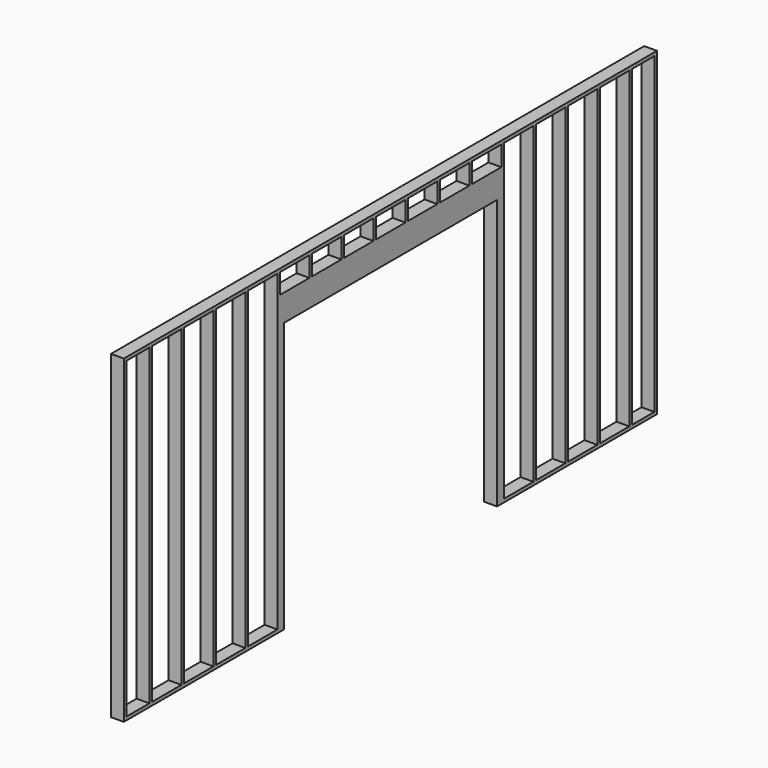
from build123d import *

# Parameters (mm, degrees)
F0_W     = 327.66
F0_H     = 3581.4
F0_W_2   = 419.1
F0_H_2   = 228.6
F0_W_3   = 320.04
F1_DEPTH = 146.304


with BuildPart() as f1:
    # F0 (on Right) → F1 (new body)
    with BuildSketch(Plane.YZ):
        Polygon((0, 3657.6), (0, 0), (2286, 0), (2286, 38.1), (2286, 3086.1), (5334, 3086.1), (5334, 38.1), (5334, 0), (7620, 0), (7620, 3657.6), align=None)
        with Locations((201.93, 1828.8)):
            Rectangle(F0_W, F0_H, mode=Mode.SUBTRACT)
        with Locations((613.41, 1828.8)):
            Rectangle(F0_W_2, F0_H, mode=Mode.SUBTRACT)
        with Locations((1070.61, 1828.8)):
            Rectangle(F0_W_2, F0_H, mode=Mode.SUBTRACT)
        with Locations((1527.81, 1828.8)):
            Rectangle(F0_W_2, F0_H, mode=Mode.SUBTRACT)
        with Locations((1985.01, 1828.8)):
            Rectangle(F0_W_2, F0_H, mode=Mode.SUBTRACT)
        with Locations((2442.21, 3505.2)):
            Rectangle(F0_W_2, F0_H_2, mode=Mode.SUBTRACT)
        with Locations((2899.41, 3505.2)):
            Rectangle(F0_W_2, F0_H_2, mode=Mode.SUBTRACT)
        with Locations((3356.61, 3505.2)):
            Rectangle(F0_W_2, F0_H_2, mode=Mode.SUBTRACT)
        with Locations((5642.61, 1828.8)):
            Rectangle(F0_W_2, F0_H, mode=Mode.SUBTRACT)
        with Locations((6099.81, 1828.8)):
            Rectangle(F0_W_2, F0_H, mode=Mode.SUBTRACT)
        with Locations((6557.01, 1828.8)):
            Rectangle(F0_W_2, F0_H, mode=Mode.SUBTRACT)
        with Locations((7014.21, 1828.8)):
            Rectangle(F0_W_2, F0_H, mode=Mode.SUBTRACT)
        with Locations((7421.88, 1828.8)):
            Rectangle(F0_W_3, F0_H, mode=Mode.SUBTRACT)
        with Locations((3813.81, 3505.2)):
            Rectangle(F0_W_2, F0_H_2, mode=Mode.SUBTRACT)
        with Locations((4271.01, 3505.2)):
            Rectangle(F0_W_2, F0_H_2, mode=Mode.SUBTRACT)
        with Locations((4728.21, 3505.2)):
            Rectangle(F0_W_2, F0_H_2, mode=Mode.SUBTRACT)
        with Locations((5185.41, 3505.2)):
            Rectangle(F0_W_2, F0_H_2, mode=Mode.SUBTRACT)
    extrude(amount=F1_DEPTH)


solid = f1.part
